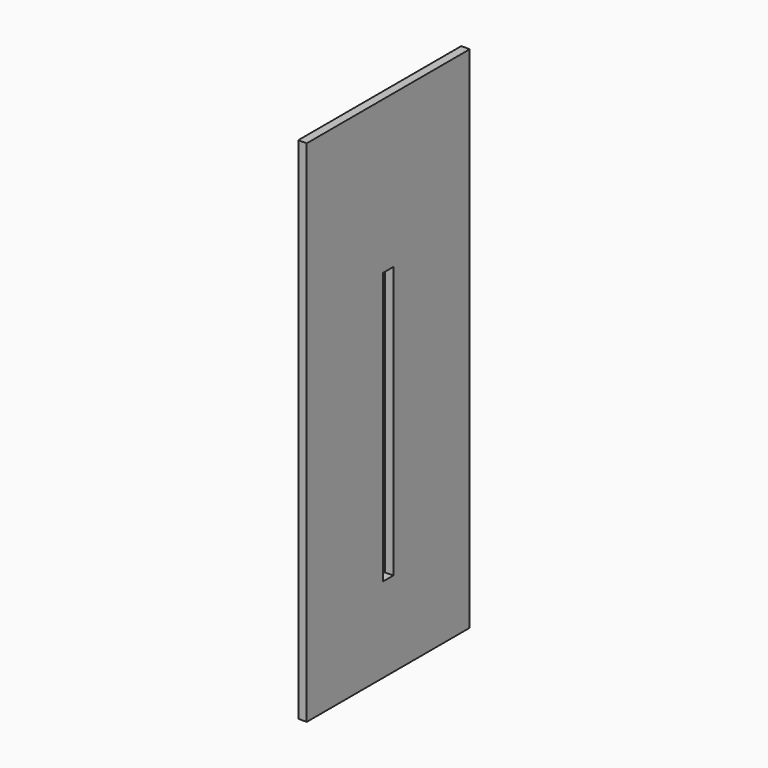
from build123d import *

# Parameters (mm, degrees)
F0_W     = 304.8
F0_H     = 762
F0_W_2   = 19.05
F0_H_2   = 406.4
F1_DEPTH = 6.35


with BuildPart() as f1:
    # F0 (on Right) → F1 (new body, symmetric)
    with BuildSketch(Plane.YZ):
        with Locations((152.4, 381)):
            Rectangle(F0_W, F0_H)
        with Locations((152.4, 330.2)):
            Rectangle(F0_W_2, F0_H_2, mode=Mode.SUBTRACT)
    extrude(amount=F1_DEPTH, both=True)


solid = f1.part
